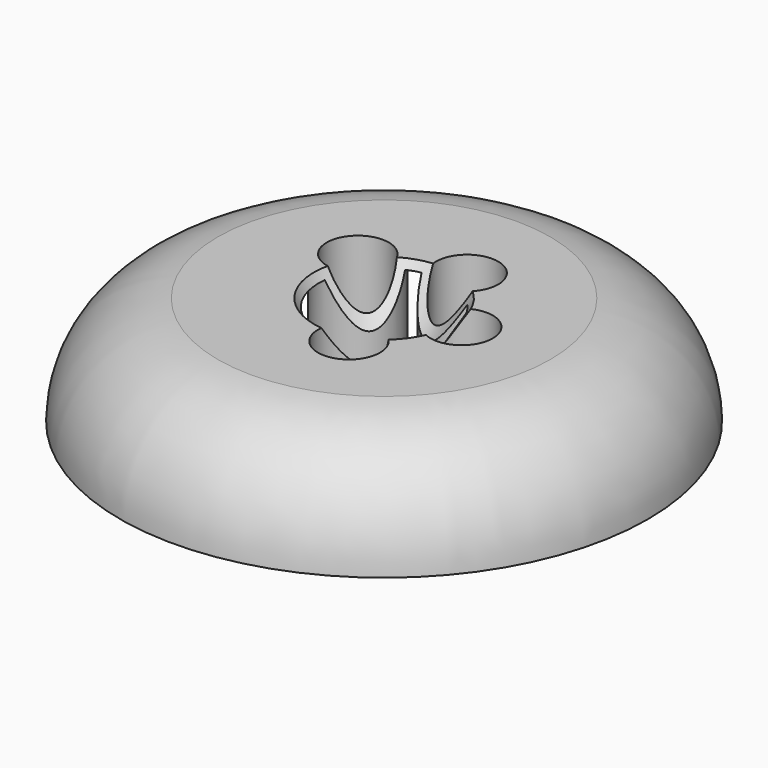
from build123d import *

# Parameters (mm, degrees)
F2_R     = 10
F3_DEPTH = 25.0000003725
F4_T     = -2.5


with BuildPart() as f1:
    # F0 (on Front) → F1 (revolve)
    with BuildSketch(Plane.XZ):
        with BuildLine():
            Line((0, 35), (0, 0))
            Line((0, 0), (85, 0))
            ThreePointArc((85, 0), (75.9723603269, 23.5370065806), (53.520439725, 35))
            Line((53.520439725, 35), (0, 35))
        make_face()
    revolve(axis=Axis((0, 0, 17.5), (0, 0, -1)))

    # F2 (on face) → F3 (cut)
    with BuildSketch(Plane.XY.offset(35)):
        with Locations((7.7254248594, 23.7764129074)):
            Circle(F2_R)
        with Locations((25, 0)):
            Circle(F2_R)
        with Locations((7.7254248594, -23.7764129074)):
            Circle(F2_R)
        with Locations((-20.2254248594, 14.6946313073)):
            Circle(F2_R)
    extrude(amount=-F3_DEPTH, mode=Mode.SUBTRACT)

    # F4
    f4_openings = [f1.faces().sort_by_distance(p)[0] for p in [
        (0, 0, 0),
    ]]
    offset(amount=F4_T, openings=f4_openings, kind=Kind.INTERSECTION)

    # F5 (on Right) → F6 (revolve, cut)
    with BuildSketch(Plane.YZ):
        Polygon((40.5379161239, 62.8329962492), (0, 62.8329962492), (0, 0), align=None)
    revolve(axis=Axis((0, 0, 31.4164981246), (0, 0, 1)), mode=Mode.SUBTRACT)


solid = f1.part
